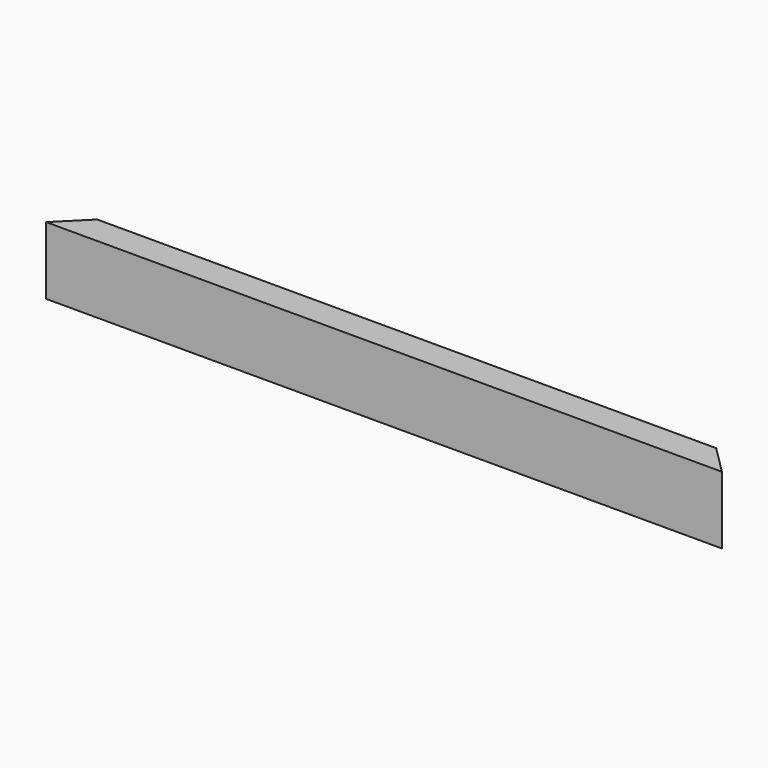
from build123d import *

# Parameters (mm, degrees)
F1_DEPTH = 1000
F3_DEPTH = 100.001
F5_DEPTH = 100.001


with BuildPart() as f1:
    # F0 (on Right) → F1 (new body)
    with BuildSketch(Plane.YZ):
        with BuildLine():
            Line((0, 100), (0, 0))
            Line((0, 0), (42, 0))
            Line((42, 0), (42, 2.664711))
            ThreePointArc((42, 2.664711), (40.806503, 5.717093), (37.859095, 7.150361))
            Line((37.859095, 7.150361), (10.140905, 9.369315))
            ThreePointArc((10.140905, 9.369315), (7.193497, 10.802582), (6, 13.854964))
            Line((6, 13.854964), (6, 86.145036))
            ThreePointArc((6, 86.145036), (7.193497, 89.197418), (10.140905, 90.630685))
            Line((10.140905, 90.630685), (37.859095, 92.849639))
            ThreePointArc((37.859095, 92.849639), (40.806503, 94.282907), (42, 97.335289))
            Line((42, 97.335289), (42, 100))
            Line((42, 100), (0, 100))
        make_face()
    extrude(amount=F1_DEPTH)

    # F2 (on face) → F3 (cut, through all)
    with BuildSketch(Plane.XY.offset(100)):
        Polygon((958, 42), (1000, 0), (1000, 42), align=None)
    extrude(amount=-F3_DEPTH, mode=Mode.SUBTRACT)

    # F4 (on face) → F5 (cut, through all)
    with BuildSketch(Plane.XY.offset(100)):
        Polygon((0, 42), (0, 0), (42, 42), align=None)
    extrude(amount=-F5_DEPTH, mode=Mode.SUBTRACT)


solid = f1.part
